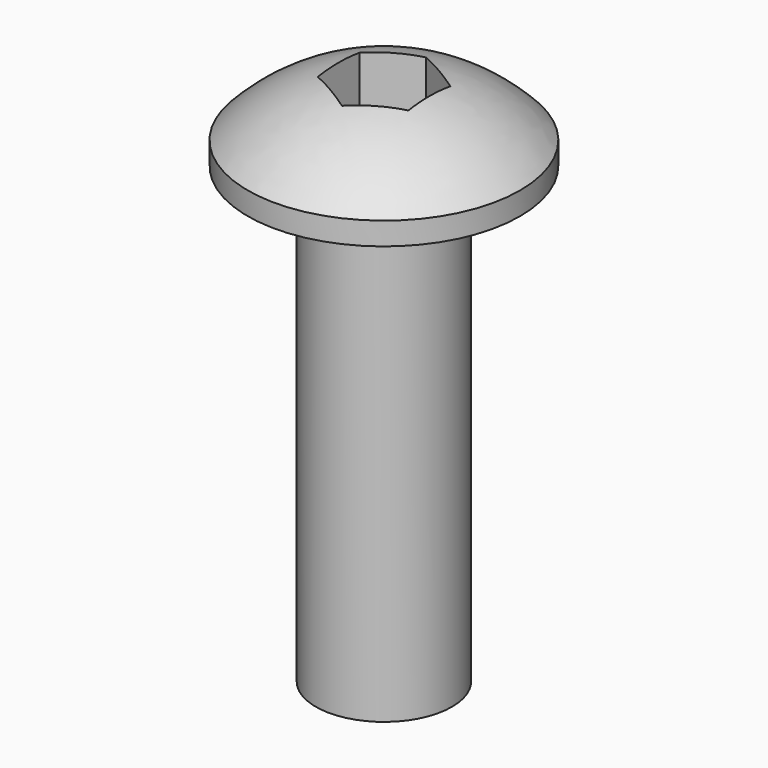
from build123d import *

# Parameters (mm, degrees)
F4_DEPTH = 2.5


with BuildPart() as f1:
    # F0 (on Front) → F1 (revolve)
    with BuildSketch(Plane.XZ):
        with BuildLine():
            Line((0, 11.8), (0, 0))
            Line((0, 0), (1.5, 0))
            Line((1.5, 0), (1.5, 10))
            Line((1.5, 10), (3, 10))
            Line((3, 10), (3, 10.5))
            ThreePointArc((3, 10.5), (1.634778, 11.461027), (0, 11.8))
        make_face()
    revolve(axis=Axis((0, 0, 0.956125), (0, 0, -1)))

    # F3 (on offset) → F4 (cut)
    with BuildSketch(Plane.XY.offset(13)):
        Polygon((1, -0.57735), (1, 0.57735), (0, 1.154701), (-1, 0.57735), (-1, -0.57735), (0, -1.154701), align=None)
    extrude(amount=-F4_DEPTH, mode=Mode.SUBTRACT)


solid = f1.part
